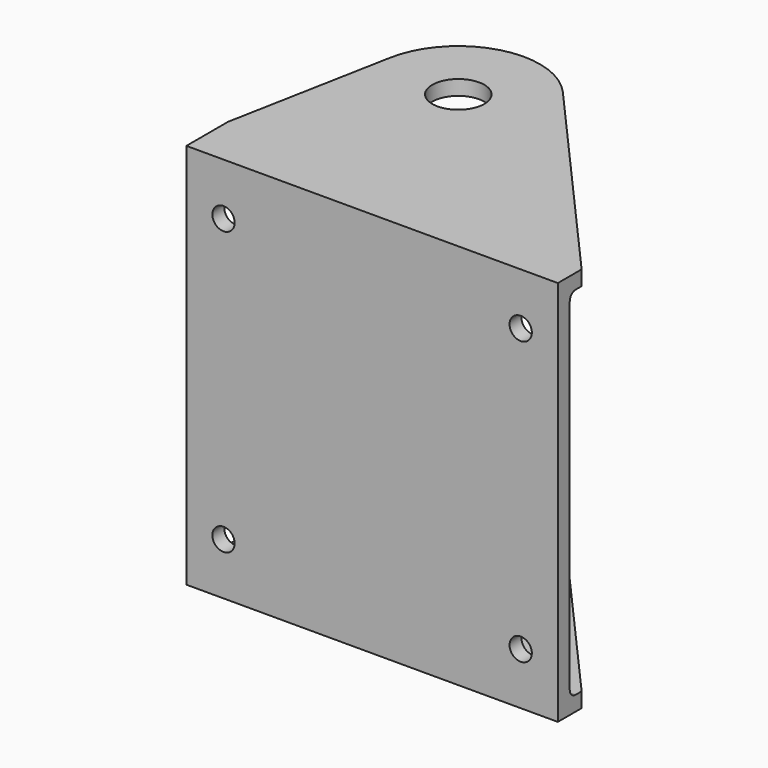
from build123d import *

# Parameters (mm, degrees)
SKETCH_W     = 50
SKETCH_H     = 48
SKETCH_R     = 1.5
PAD_DEPTH    = 2
SKETCH003_R  = 1.5
PAD001_DEPTH = 2
SKETCH004_R  = 3.5
PAD002_DEPTH = 2
FILLET_R     = 1
FILLET001_R  = 1


with BuildPart() as body:
    # Sketch → Pad (new body)
    with BuildSketch(Plane.XZ):
        Rectangle(SKETCH_W, SKETCH_H)
        with Locations((-20, 19)):
            Circle(SKETCH_R, mode=Mode.SUBTRACT)
        with Locations((20, 19)):
            Circle(SKETCH_R, mode=Mode.SUBTRACT)
        with Locations((-20, -19)):
            Circle(SKETCH_R, mode=Mode.SUBTRACT)
        with Locations((20, -19)):
            Circle(SKETCH_R, mode=Mode.SUBTRACT)
    extrude(amount=PAD_DEPTH)

    # Sketch003 (on Face3 of Pad) → Pad001 (join)
    with BuildSketch(Plane(origin=(0, 0, -24), x_dir=(1, 0, 0), z_dir=(0, 0, -1))):
        with BuildLine():
            Line((-25, 0), (-25, 2))
            Line((-25, 2), (25, 2))
            Line((25, 2), (25, 0))
            Line((25, 0), (25, -5))
            Line((25, -5), (20.80638, -27.054785))
            ThreePointArc((1.756653, -32.283353), (12.911489, -35.607697), (20.80638, -27.054785))
            Line((-25, -2), (1.756653, -32.283353))
            Line((-25, 0), (-25, -2))
        make_face()
        with Locations((10, -31.934549)):
            Circle(SKETCH003_R, mode=Mode.SUBTRACT)
        with Locations((17.205, -25)):
            Circle(SKETCH003_R, mode=Mode.SUBTRACT)
        with Locations((10, -25)):
            Circle(SKETCH003_R, mode=Mode.SUBTRACT)
        with Locations((2.795, -25)):
            Circle(SKETCH003_R, mode=Mode.SUBTRACT)
        with Locations((10, -18.065451)):
            Circle(SKETCH003_R, mode=Mode.SUBTRACT)
    extrude(amount=PAD001_DEPTH)

    # Sketch004 (on Face1 of Pad) → Pad002 (join)
    with BuildSketch(Plane(origin=(0, 0, 24), x_dir=(-1, 0, 0), z_dir=(0, 0, 1))):
        with BuildLine():
            Line((-25, 2), (25, 2))
            Line((25, 2), (25, 0))
            Line((25, 0), (25, -2))
            Line((25, -2), (-1.756653, -32.283353))
            ThreePointArc((-20.80638, -27.054785), (-12.911489, -35.607697), (-1.756653, -32.283353))
            Line((-25, -5), (-20.80638, -27.054785))
            Line((-25, 0), (-25, -5))
            Line((-25, 0), (-25, 2))
        make_face()
        with Locations((-10, -25)):
            Circle(SKETCH004_R, mode=Mode.SUBTRACT)
    extrude(amount=PAD002_DEPTH)

    # Fillet
    fillet_edges = [body.edges().sort_by_distance(p)[0] for p in [
        (0, 0, -24),
    ]]
    fillet(fillet_edges, radius=FILLET_R)

    # Fillet001
    fillet001_edges = [body.edges().sort_by_distance(p)[0] for p in [
        (0, 0, 24),
    ]]
    fillet(fillet001_edges, radius=FILLET001_R)


with BuildPart() as part_mirroring:
    # Part__Mirroring: instance of Body
    add(body.part.mirror(Plane(origin=(0, 0, 0), x_dir=(0, -1, 0), z_dir=(1, 0, 0))))


solid = part_mirroring.part
